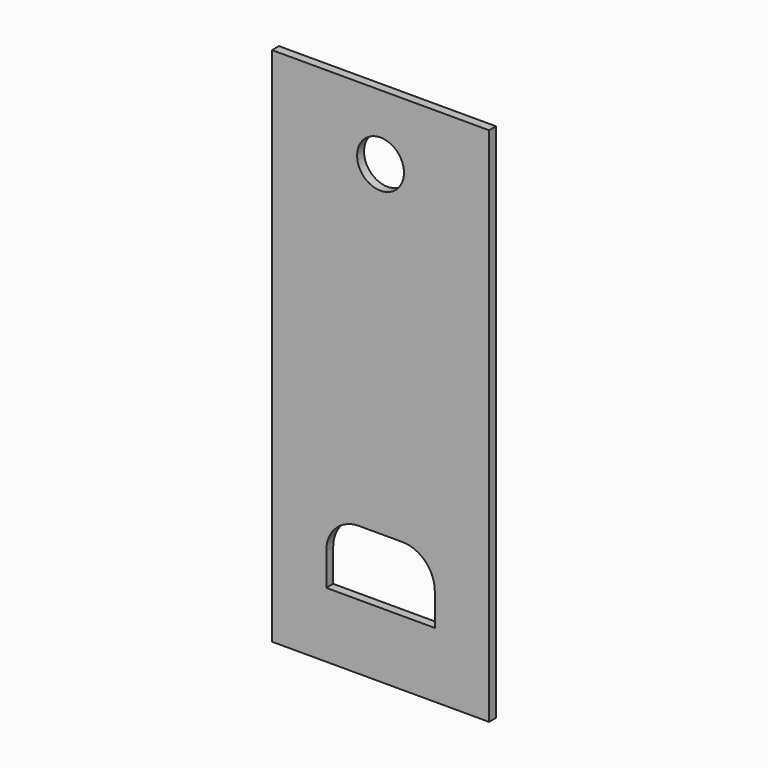
from build123d import *

# Parameters (mm, degrees)
F0_W     = 127
F0_H     = 304.8
F0_R     = 13.716
F1_DEPTH = 5.08


with BuildPart() as f1:
    # F0 (on Front) → F1 (new body)
    with BuildSketch(Plane.XZ):
        with Locations((63.5, -152.4)):
            Rectangle(F0_W, F0_H)
        with BuildLine():
            Line((95.25, -266.7), (31.75, -266.7))
            Line((31.75, -266.7), (31.75, -247.65))
            ThreePointArc((31.75, -247.65), (37.329616, -234.179616), (50.8, -228.6))
            Line((50.8, -228.6), (76.2, -228.6))
            ThreePointArc((76.2, -228.6), (89.670384, -234.179616), (95.25, -247.65))
            Line((95.25, -247.65), (95.25, -266.7))
        make_face(mode=Mode.SUBTRACT)
        with Locations((63.5, -38.1)):
            Circle(F0_R, mode=Mode.SUBTRACT)
    extrude(amount=F1_DEPTH)


solid = f1.part
